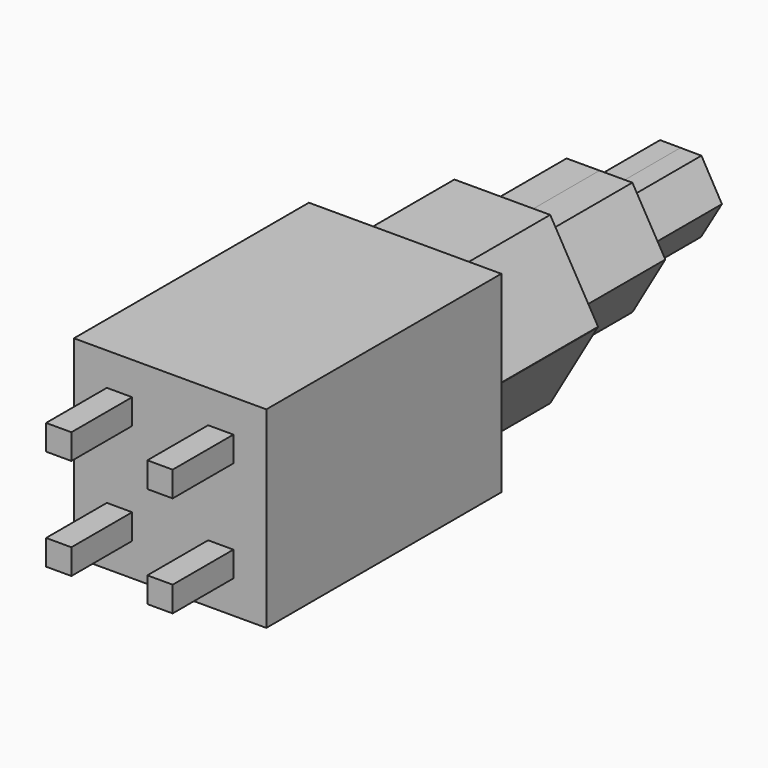
from build123d import *

# Parameters (mm, degrees)
F0_W     = 48.26
F0_H     = 73.66
F1_DEPTH = 48.26
F3_DEPTH = 30.48
F5_DEPTH = 30.48
F7_DEPTH = 25.4
F8_W     = 3.175
F8_H     = 3.175
F9_DEPTH = 19.05


with BuildPart() as f1:
    # F0 (on Top) → F1 (new body)
    with BuildSketch(Plane.XY):
        with Locations((24.13, 36.83)):
            Rectangle(F0_W, F0_H)
    extrude(amount=F1_DEPTH)

    # F2 (on face) → F3 (join)
    with BuildSketch(Plane(origin=(0, 73.66, 0), x_dir=(-1, 0, 0), z_dir=(0, 1, 0))):
        Polygon((-12.1206499105, 44.9308045208), (-24.13, 44.9308045208), (-24.13, 24.13), (-24.13, 9.0534836054), (-48.0858952621, 24.0212186931), (-36.1393500895, 3.3291954792), (-12.1206499105, 3.3291954792), (-0.1112998211, 24.13), align=None)
        Polygon((-24.13, 24.13), (-24.13, 44.9308045208), (-36.1393500895, 44.9308045208), (-48.1487001789, 24.13), align=None)
        Polygon((-24.13, 9.0534836054), (-24.13, 24.13), (-48.1487001789, 24.13), (-48.0858952621, 24.0212186931), align=None)
        Polygon((-48.0858952621, 24.0212186931), (-48.1487001789, 24.13), (-48.26, 24.13), align=None)
    extrude(amount=F3_DEPTH)

    # F4 (on face) → F5 (join)
    with BuildSketch(Plane(origin=(0, 104.14, 0), x_dir=(-1, 0, 0), z_dir=(0, 1, 0))):
        Polygon((-15.8659655868, 38.4132767837), (-24.13, 38.4209016232), (-24.13, 24.0781502233), (-7.6297935663, 24.1173632016), align=None)
        Polygon((-24.13, 24.0781502233), (-24.13, 38.4209016232), (-32.3676633374, 38.4285021314), (-40.6316977506, 24.1452253477), (-40.5705446588, 24.0390790321), align=None)
        Polygon((-7.6297935663, 24.1173632016), (-24.13, 24.0781502233), (-24.13, 9.8390983768), (-15.8923366626, 9.8314978686), (-7.6283022494, 24.1147746523), align=None)
        Polygon((-24.13, 9.8390983768), (-24.13, 24.0781502233), (-40.5705446588, 24.0390790321), (-32.3940344132, 9.8467232163), align=None)
    extrude(amount=F5_DEPTH)

    # F6 (on face) → F7 (join)
    with BuildSketch(Plane(origin=(0, 134.62, 0), x_dir=(-1, 0, 0), z_dir=(0, 1, 0))):
        Polygon((-18.9955281103, 33.1531956374), (-24.1168144621, 33.1211234563), (-24.1168144621, 24.1299878343), (-13.7908709872, 24.1204605673), (-13.7484474098, 24.1950147272), align=None)
        Polygon((-24.1168144621, 24.1299878343), (-24.1168144621, 33.1211234563), (-29.3770807004, 33.0881809102), (-34.4691290128, 24.1395394327), align=None)
        Polygon((-13.7908709872, 24.1204605673), (-24.1168144621, 24.1299878343), (-24.1168144621, 15.1390416932), (-18.8829192996, 15.1718190898), align=None)
        Polygon((-24.1168144621, 15.1390416932), (-24.1168144621, 24.1299878343), (-34.4691290128, 24.1395394327), (-34.5115525902, 24.0649852728), (-29.2644718897, 15.1068043626), align=None)
    extrude(amount=F7_DEPTH)

    # F8 (on face) → F9 (join)
    with BuildSketch(Plane.XZ):
        Polygon((40.005, 40.005), (36.83, 40.005), (36.83, 36.83), (36.83, 33.655), (40.005, 33.655), align=None)
        Polygon((36.83, 36.83), (36.83, 40.005), (33.655, 40.005), (33.655, 33.655), (36.83, 33.655), align=None)
        Polygon((8.255, 33.655), (11.43, 33.655), (14.605, 33.655), (14.605, 40.005), (8.255, 40.005), align=None)
        Polygon((14.605, 8.255), (14.605, 11.43), (11.43, 11.43), (11.43, 14.605), (8.255, 14.605), (8.255, 8.255), align=None)
        with Locations((13.0175, 13.0175)):
            Rectangle(F8_W, F8_H)
        Polygon((40.005, 14.605), (36.83, 14.605), (36.83, 11.43), (33.655, 11.43), (33.655, 8.255), (40.005, 8.255), align=None)
        with Locations((35.2425, 13.0175)):
            Rectangle(F8_W, F8_H)
    extrude(amount=F9_DEPTH)


solid = f1.part
